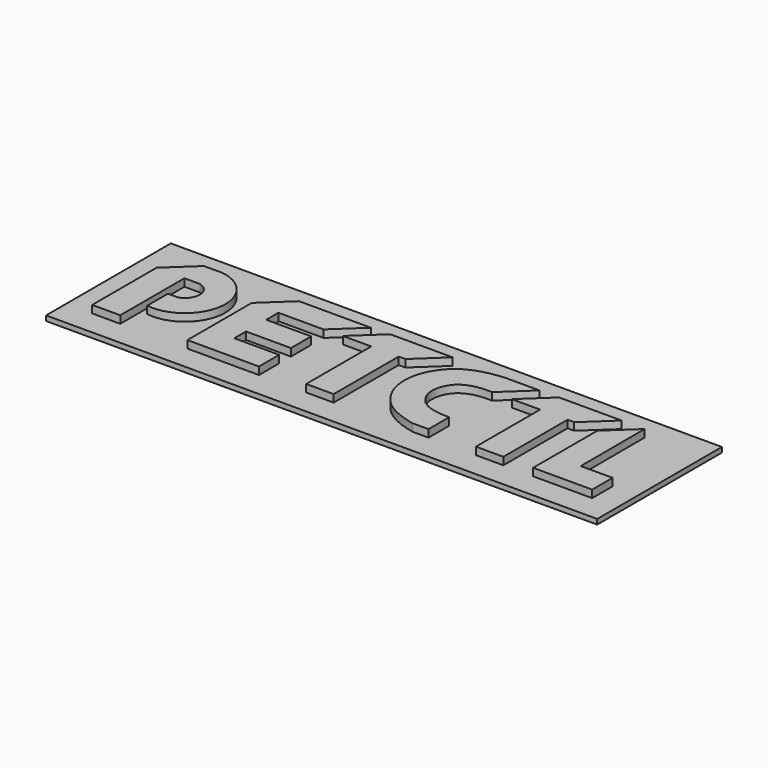
from build123d import *

# Parameters (mm, degrees)
SKETCH_W     = 110.04
SKETCH_H     = 31.13
PAD_DEPTH    = 1
PAD001_DEPTH = 1.5


with BuildPart() as part:
    # Sketch → Pad (new body)
    with BuildSketch(Plane.XY):
        with Locations((50.02, 10.565)):
            Rectangle(SKETCH_W, SKETCH_H)
    extrude(amount=PAD_DEPTH)

    # Sketch001 → Pad001 (join)
    with BuildSketch(Plane.XY.offset(1)):
        with BuildLine():
            Line((9.050295, 10.321073), (7.066321, 10.321073))
            Line((7.066321, 10.321073), (7.066321, 5.163982))
            ThreePointArc((7.066321, 5.163982), (16.188383, 12.014691), (9.330203, 21.131137))
            Line((9.330203, 21.131137), (5.608163, 21.131137))
            Line((5.608163, 21.131137), (0.205283, 16.081137))
            Line((0.205283, 16.081137), (0.205283, 0))
            Line((0.205283, 0), (5.809592, 0))
            Line((5.809592, 0), (5.809592, 16.015693))
            Line((5.809592, 16.015693), (8.888276, 16.015693))
            ThreePointArc((8.888276, 16.015693), (11.152955, 13.230511), (9.050295, 10.321073))
        make_face()
        with BuildLine():
            add(Edge.make_bspline(
                [(67.303898, 15.965996), (62.098309, 16.191984), (58.974827, 11.8324), (60.112492, 7.371485), (63.086761, 5.170527), (67.363525, 5.130735)],
                knots=[0, 0, 0, 0, 0.333333, 0.666667, 1, 1, 1, 1], degree=3))
            Line((67.363525, 5.130735), (67.363525, 0))
            Line((67.363525, 0), (64.118454, 0))
            add(Edge.make_bspline(
                [(65.6586, 21.015996), (59.749424, 20.528551), (54.754429, 16.165611), (53.644032, 9.523063), (55.59515, 4.427975), (59.316757, 1.105113), (64.118454, 0)],
                knots=[0, 0, 0, 0, 0.25, 0.5, 0.75, 1, 1, 1, 1], degree=3))
            Line((65.6586, 21.015996), (72.706779, 21.015996))
            Line((72.706779, 21.015996), (67.303898, 15.965996))
        make_face()
        Polygon((38.950399, 21.12416), (24.620772, 21.12416), (19.217891, 16.07416), (19.217891, 0), (33.507112, 0), (33.507112, 5.05), (24.537624, 5.05), (24.537624, 7.978263), (33.507112, 7.978263), (33.507112, 13.028263), (24.537624, 13.028263), (24.537624, 16.07416), (33.547518, 16.07416), align=None)
        Polygon((42.687428, 21.282697), (37.284547, 16.232697), (42.935597, 16.232697), (42.935597, 0), (48.416265, 0), (48.416265, 16.232697), (49.751421, 16.232697), (55.154302, 21.282697), align=None)
        Polygon((76.574252, 21.071087), (71.171371, 16.021087), (76.822421, 16.021087), (76.822421, 0), (82.303089, 0), (82.303089, 16.021087), (83.638245, 16.021087), (89.041126, 21.071087), align=None)
        Polygon((88.247359, 16.026386), (93.65024, 21.076386), (93.682304, 5.090163), (100.043274, 5.090163), (100.043274, 0), (88.247359, 0), align=None)
    extrude(amount=PAD001_DEPTH)


solid = part.part
